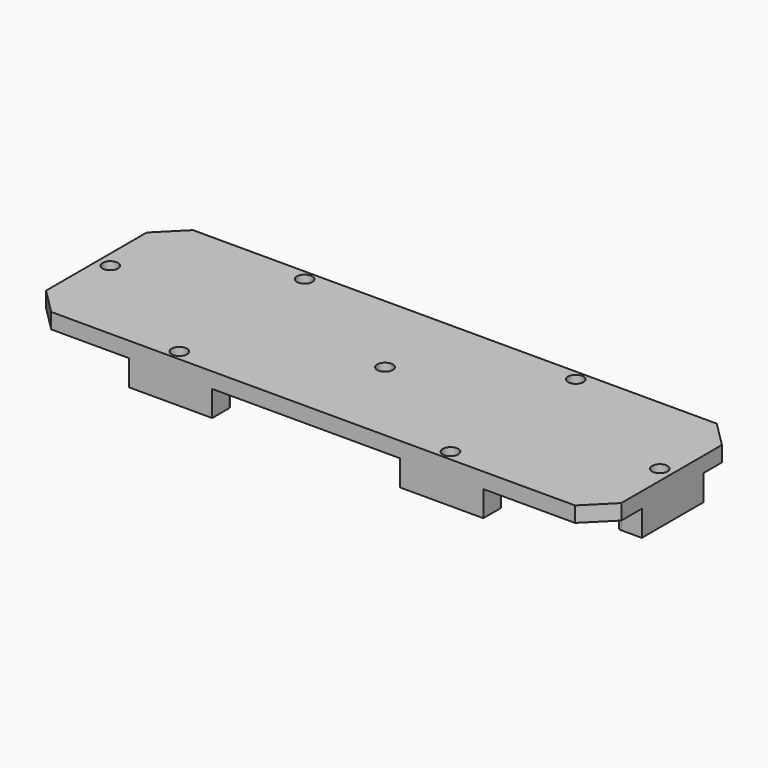
from build123d import *

# Parameters (mm, degrees)
F1_W     = 112
F1_H     = 34.5
F2_DEPTH = 3
F0_W     = 5
F0_H     = 15
F0_W_2   = 16.181867
F0_H_2   = 5
F3_DEPTH = 5
F4_R     = 1.5
F5_DEPTH = 25
F6_R     = 1
F7_SIZE  = 5


with BuildPart() as f2:
    # F1 (on Top) → F2 (new body)
    with BuildSketch(Plane.XY):
        with Locations((-11.597955, 10.057821)):
            Rectangle(F1_W, F1_H)
    extrude(amount=F2_DEPTH)

    # F0 (on Top) → F3 (join)
    with BuildSketch(Plane.XY):
        with Locations((-65.097955, 10.307821)):
            Rectangle(F0_W, F0_H)
        with Locations((-11.597955, 10.307821)):
            Rectangle(F0_W, F0_H)
        with Locations((41.902045, 10.307821)):
            Rectangle(F0_W, F0_H)
        with Locations((-39.348996, 24.807821)):
            Rectangle(F0_W_2, F0_H_2)
        with Locations((-39.348996, -4.692179)):
            Rectangle(F0_W_2, F0_H_2)
        with Locations((13.451004, 24.807821)):
            Rectangle(F0_W_2, F0_H_2)
        with Locations((13.451004, -4.692179)):
            Rectangle(F0_W_2, F0_H_2)
    extrude(amount=-F3_DEPTH)

    # F4 (on face) → F5 (cut)
    with BuildSketch(Plane(origin=(0, 0, -5), x_dir=(1, 0, 0), z_dir=(0, 0, -1))):
        with Locations((-65.097955, -10.307821)):
            Circle(F4_R)
        with Locations((-11.597955, -10.307821)):
            Circle(F4_R)
        with Locations((41.902045, -10.307821)):
            Circle(F4_R)
        with Locations((-39.258062, 5.192179)):
            Circle(F4_R)
        with Locations((13.541938, 5.192179)):
            Circle(F4_R)
        with Locations((13.541938, -25.307821)):
            Circle(F4_R)
        with Locations((-39.258062, -25.307821)):
            Circle(F4_R)
    extrude(amount=-F5_DEPTH, mode=Mode.SUBTRACT)

    # F6
    f6_edges = [f2.edges().sort_by_distance(p)[0] for p in [
        (-62.597955, 2.807821, -2.5),
        (-62.597955, 17.807821, -2.5),
        (-47.439929, -2.192179, -2.5),
        (-31.258062, -2.192179, -2.5),
        (-47.439929, 22.307821, -2.5),
        (-31.258062, 22.307821, -2.5),
        (-14.097955, 17.807821, -2.5),
        (-14.097955, 2.807821, -2.5),
        (5.360071, -2.192179, -2.5),
        (21.541938, -2.192179, -2.5),
        (39.402045, 2.807821, -2.5),
        (-9.097955, 2.807821, -2.5),
        (-9.097955, 17.807821, -2.5),
        (39.402045, 17.807821, -2.5),
        (21.541938, 22.307821, -2.5),
        (5.360071, 22.307821, -2.5),
    ]]
    fillet(f6_edges, radius=F6_R)

    # F7
    f7_edges = [f2.edges().sort_by_distance(p)[0] for p in [
        (-67.597955, 27.307821, 1.5),
        (44.402045, 27.307821, 1.5),
        (44.402045, -7.192179, 1.5),
        (-67.597955, -7.192179, 1.5),
    ]]
    chamfer(f7_edges, length=F7_SIZE)


solid = f2.part
